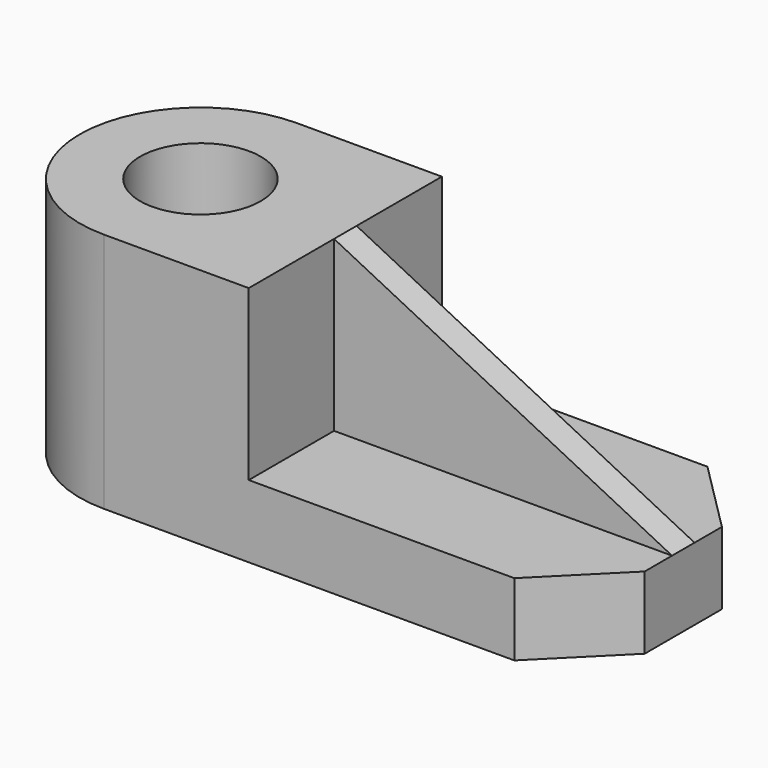
from build123d import *

# Parameters (mm, degrees)
F0_R     = 7.5
F1_DEPTH = 30
F2_DEPTH = 9
F4_DEPTH = 1.75


with BuildPart() as f1:
    # F0 (on Top) → F1 (new body)
    with BuildSketch(Plane.XY):
        with BuildLine():
            Line((18, 15), (0, 15))
            ThreePointArc((0, 15), (-15, 0), (0, -15))
            Line((0, -15), (18, -15))
            Line((18, -15), (18, 15))
        make_face()
        Circle(F0_R, mode=Mode.SUBTRACT)
    extrude(amount=F1_DEPTH)

    # F0 (on Top) → F2 (join)
    with BuildSketch(Plane.XY):
        with BuildLine():
            Line((18, 15), (0, 15))
            ThreePointArc((0, 15), (-15, 0), (0, -15))
            Line((0, -15), (18, -15))
            Line((18, -15), (18, 15))
        make_face()
        Circle(F0_R, mode=Mode.SUBTRACT)
        Polygon((51, 15), (18, 15), (18, -15), (51, -15), (60, -6), (60, 6), align=None)
    extrude(amount=F2_DEPTH)

    # F3 (on Front) → F4 (join, symmetric)
    with BuildSketch(Plane.XZ):
        Polygon((60, 9), (18, 30), (18, 9), align=None)
    extrude(amount=F4_DEPTH, both=True)


solid = f1.part
